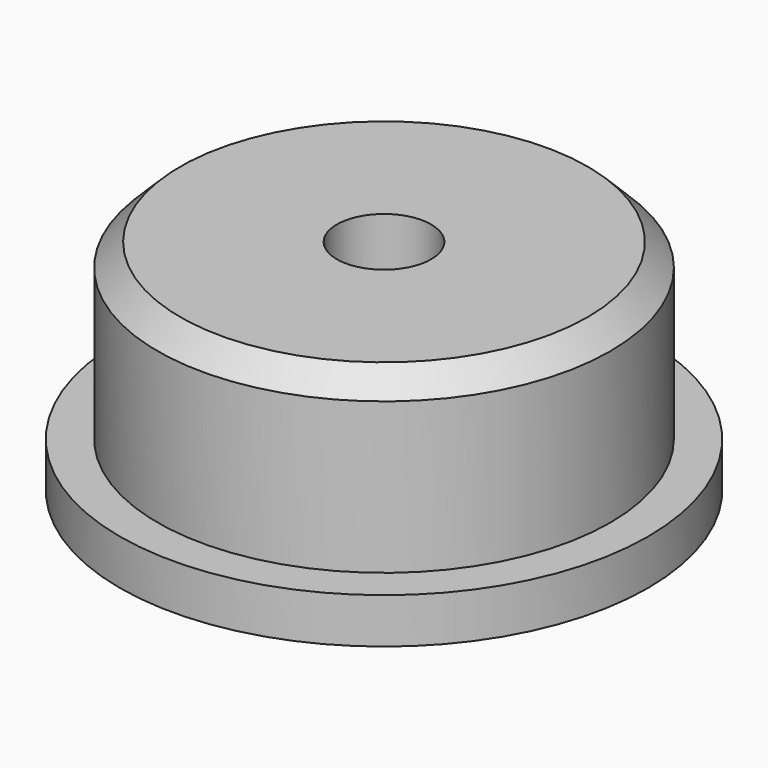
from build123d import *

# Parameters (mm, degrees)
F0_R     = 30
F0_R_2   = 6.25
F1_DEPTH = 29
F2_R     = 35
F2_R_2   = 6.25
F3_DEPTH = 6
F4_SIZE  = 3


with BuildPart() as f1:
    # F0 (on Top) → F1 (new body)
    with BuildSketch(Plane.XY):
        Circle(F0_R)
        Circle(F0_R_2, mode=Mode.SUBTRACT)
    extrude(amount=F1_DEPTH)

    # F2 (on Top) → F3 (join)
    with BuildSketch(Plane.XY):
        Circle(F2_R)
        Circle(F2_R_2, mode=Mode.SUBTRACT)
    extrude(amount=F3_DEPTH)

    # F4
    f4_edges = [f1.edges().sort_by_distance(p)[0] for p in [
        (-30, 0, 29),
    ]]
    chamfer(f4_edges, length=F4_SIZE)


solid = f1.part
